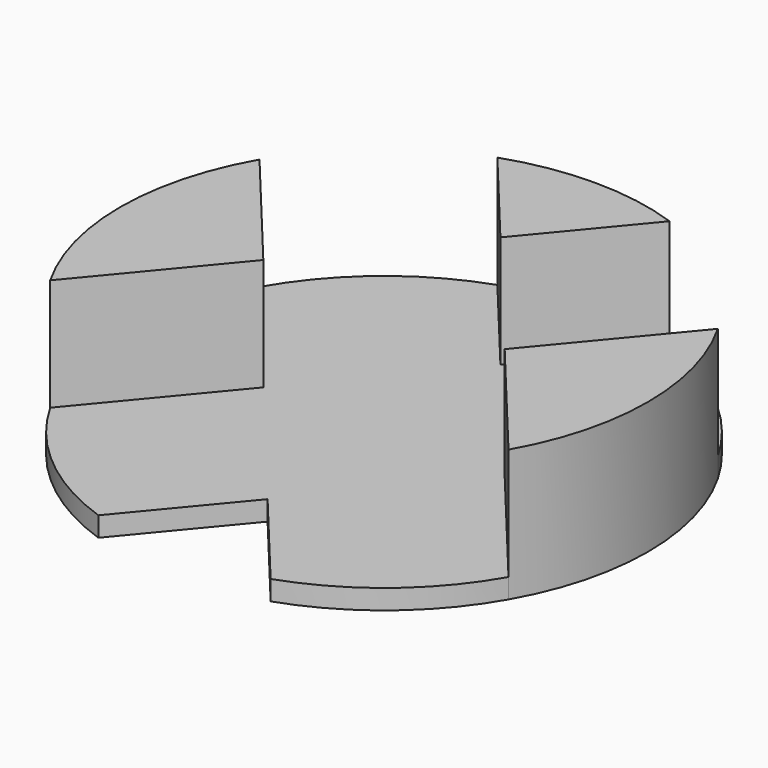
from build123d import *

# Parameters (mm, degrees)
F1_DEPTH = 0.762
F2_DEPTH = 5.08


with BuildPart() as f1:
    # F0 (on Top) → F1 (new body)
    with BuildSketch(Plane.XY):
        with BuildLine():
            ThreePointArc((-42.241485, 18.570835), (-45.409698, 16.788386), (-47.747653, 14.004744))
            Line((-47.747653, 14.004744), (-43.570547, 8.967645))
            Line((-43.570547, 8.967645), (-47.747653, 3.930546))
            ThreePointArc((-47.747653, 3.930546), (-45.409698, 1.146904), (-42.241485, -0.635545))
            Line((-42.241485, -0.635545), (-38.924205, 3.364703))
            Line((-38.924205, 3.364703), (-35.606926, -0.635545))
            ThreePointArc((-35.606926, -0.635545), (-32.438713, 1.146904), (-30.100758, 3.930546))
            Line((-30.100758, 3.930546), (-34.277864, 8.967645))
            Line((-34.277864, 8.967645), (-30.100758, 14.004744))
            ThreePointArc((-30.100758, 14.004744), (-32.438713, 16.788386), (-35.606926, 18.570835))
            Line((-35.606926, 18.570835), (-38.924205, 14.570586))
            Line((-38.924205, 14.570586), (-42.241485, 18.570835))
        make_face()
    extrude(amount=F1_DEPTH)

    # F0 (on Top) → F2 (join)
    with BuildSketch(Plane.XY):
        with BuildLine():
            ThreePointArc((-35.606926, 18.570835), (-38.924205, 19.127645), (-42.241485, 18.570835))
            Line((-42.241485, 18.570835), (-38.924205, 14.570586))
            Line((-38.924205, 14.570586), (-35.606926, 18.570835))
        make_face()
        with BuildLine():
            ThreePointArc((-30.100758, 3.930546), (-28.764205, 8.967645), (-30.100758, 14.004744))
            Line((-30.100758, 14.004744), (-34.277864, 8.967645))
            Line((-34.277864, 8.967645), (-30.100758, 3.930546))
        make_face()
        with BuildLine():
            Line((-43.570547, 8.967645), (-47.747653, 14.004744))
            ThreePointArc((-47.747653, 14.004744), (-49.084205, 8.967645), (-47.747653, 3.930546))
            Line((-47.747653, 3.930546), (-43.570547, 8.967645))
        make_face()
    extrude(amount=F2_DEPTH)


solid = f1.part
